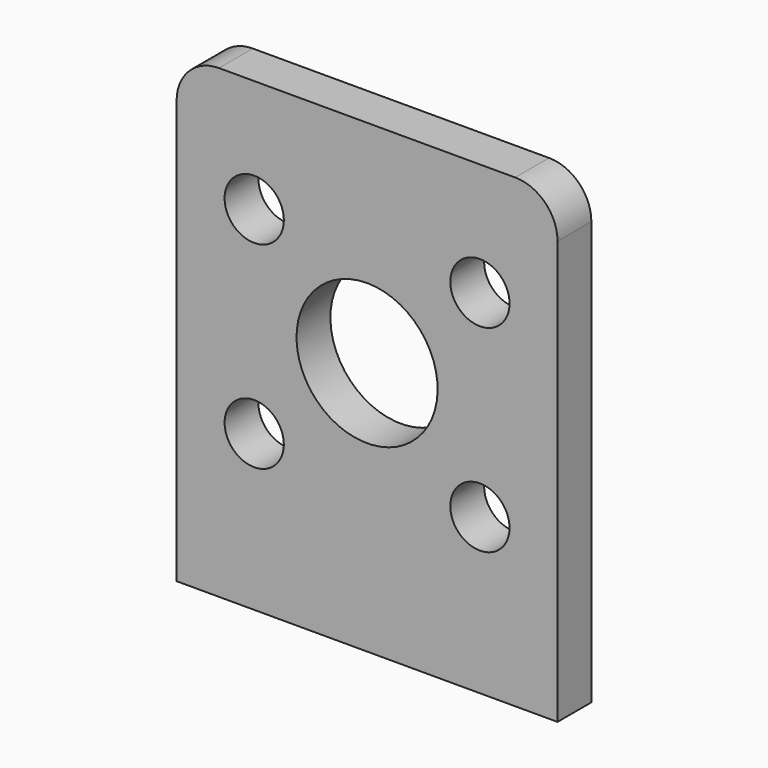
from build123d import *

# Parameters (mm, degrees)
CYLINDER008_R          = 5
CYLINDER008_DEPTH      = 10
CYLINDER007_R          = 2.1
CYLINDER007_DEPTH      = 10
ARRAY001_X_COUNT       = 2
ARRAY001_X_PITCH       = 14
ARRAY001_Y_COUNT       = 2
ARRAY001_Y_PITCH       = 16
BOX006_W               = 33
BOX006_H               = 27
BOX006_DEPTH           = 3
FILLET002_R            = 3
CUT004_PITCH_ANGLE     = -90
CUT004_PLACEMENT_ANGLE = -90


with BuildPart() as motor_holder_central_hole:
    # Cylinder008 → Cylinder008 (new body)
    with BuildSketch(Plane(origin=(18, 13.5, 0), x_dir=(1, 0, 0), z_dir=(0, 0, 1))):
        Circle(CYLINDER008_R)
    extrude(amount=CYLINDER008_DEPTH)


with BuildPart() as hole_extract:
    # Cylinder007 → Cylinder007 (new body)
    with BuildSketch(Plane.XY):
        Circle(CYLINDER007_R)
    extrude(amount=CYLINDER007_DEPTH)

    # Array001 X: hole extract ×2


with BuildPart() as hole_extract_1:
    add(hole_extract.part)
    with Locations(*[(i * ARRAY001_X_PITCH, 0, 0) for i in range(1, ARRAY001_X_COUNT)]):
        add(hole_extract.part)

    # Array001 Y: hole extract ×2


with BuildPart() as hole_extract_2:
    add(hole_extract_1.part)
    with Locations(*[(0, i * ARRAY001_Y_PITCH, 0) for i in range(1, ARRAY001_Y_COUNT)]):
        add(hole_extract_1.part)


with BuildPart() as hole_extract_3:
    # Array001 placement: moved
    add(hole_extract_2.part.moved(Location((11, 5.5, 0))))

    # Fusion008: union motor holder central hole
    add(motor_holder_central_hole.part)


with BuildPart() as motor_holder_cut001:
    # Box006 → Box006 (new body)
    with BuildSketch(Plane.XY):
        with Locations((16.5, 13.5)):
            Rectangle(BOX006_W, BOX006_H)
    extrude(amount=BOX006_DEPTH)

    # Fillet002
    fillet002_edges = [motor_holder_cut001.edges().sort_by_distance(p)[0] for p in [
        (33, 0, 1.5),
        (33, 27, 1.5),
    ]]
    fillet(fillet002_edges, radius=FILLET002_R)

    # Cut004: cut hole extract
    add(hole_extract_3.part, mode=Mode.SUBTRACT)


with BuildPart() as motor_holder_cut001_1:
    # Cut004 pitch: moved
    add(motor_holder_cut001.part.rotate(Axis((0, 0, 0), (0, 1, 0)), CUT004_PITCH_ANGLE))


with BuildPart() as motor_holder_cut001_2:
    # Cut004 placement: moved
    add(motor_holder_cut001_1.part.moved(Location((-13.5, -34, 0))).rotate(Axis((-13.5, -34, 0), (0, 0, 1)), CUT004_PLACEMENT_ANGLE))


with BuildPart() as motor_holder_cut001_3:
    # Cut004001 placement: moved
    add(motor_holder_cut001_2.part.moved(Location((0, 2, 0))))


solid = motor_holder_cut001_3.part
